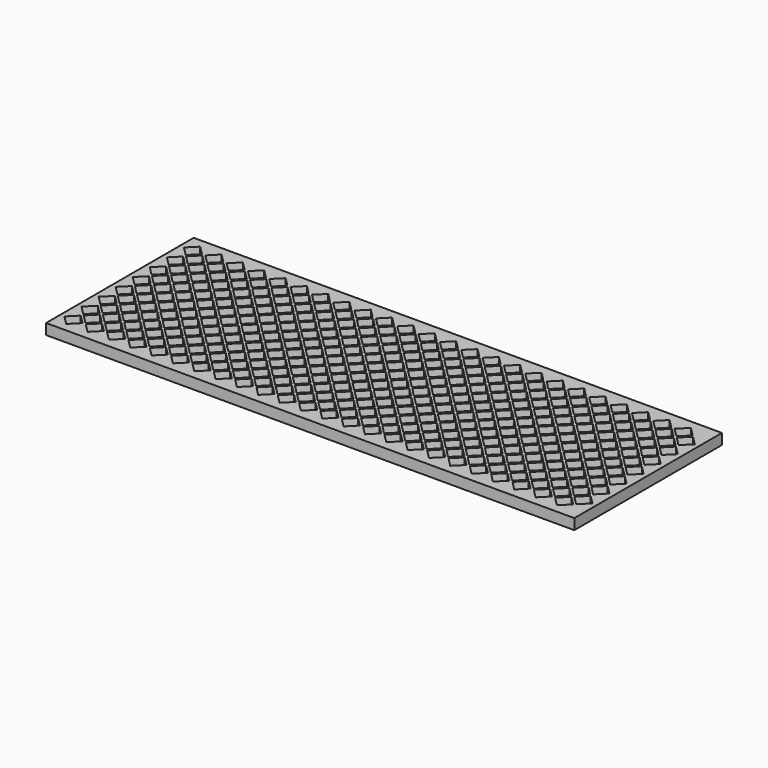
from build123d import *

# Parameters (mm, degrees)
F0_W     = 123.792
F0_H     = 43.243
F1_DEPTH = 2.5


with BuildPart() as f1:
    # F0 (on Top) → F1 (new body)
    with BuildSketch(Plane.XY):
        Rectangle(F0_W, F0_H)
        Polygon((-58.7746796564, -19.6215), (-60.896, -17.5001796564), (-58.7746796564, -15.3788593129), (-56.6533593129, -17.5001796564), align=None, mode=Mode.SUBTRACT)
        Polygon((-53.7746796564, -19.6215), (-55.896, -17.5001796564), (-53.7746796564, -15.3788593129), (-51.6533593129, -17.5001796564), align=None, mode=Mode.SUBTRACT)
        Polygon((-48.7746796564, -19.6215), (-50.896, -17.5001796564), (-48.7746796564, -15.3788593129), (-46.6533593129, -17.5001796564), align=None, mode=Mode.SUBTRACT)
        Polygon((-43.7746796564, -19.6215), (-45.896, -17.5001796564), (-43.7746796564, -15.3788593129), (-41.6533593129, -17.5001796564), align=None, mode=Mode.SUBTRACT)
        Polygon((-38.7746796564, -19.6215), (-40.896, -17.5001796564), (-38.7746796564, -15.3788593129), (-36.6533593129, -17.5001796564), align=None, mode=Mode.SUBTRACT)
        Polygon((-33.7746796564, -19.6215), (-35.896, -17.5001796564), (-33.7746796564, -15.3788593129), (-31.6533593129, -17.5001796564), align=None, mode=Mode.SUBTRACT)
        Polygon((-58.396, -15.0001796564), (-56.2746796564, -12.8788593129), (-54.1533593129, -15.0001796564), (-56.2746796564, -17.1215), align=None, mode=Mode.SUBTRACT)
        Polygon((-51.2746796564, -17.1215), (-53.396, -15.0001796564), (-51.2746796564, -12.8788593129), (-49.1533593129, -15.0001796564), align=None, mode=Mode.SUBTRACT)
        Polygon((-58.7746796564, -14.6215), (-60.896, -12.5001796564), (-58.7746796564, -10.3788593129), (-56.6533593129, -12.5001796564), align=None, mode=Mode.SUBTRACT)
        Polygon((-53.7746796564, -14.6215), (-55.896, -12.5001796564), (-53.7746796564, -10.3788593129), (-51.6533593129, -12.5001796564), align=None, mode=Mode.SUBTRACT)
        Polygon((-48.7746796564, -14.6215), (-50.896, -12.5001796564), (-48.7746796564, -10.3788593129), (-46.6533593129, -12.5001796564), align=None, mode=Mode.SUBTRACT)
        Polygon((-46.2746796564, -17.1215), (-48.396, -15.0001796564), (-46.2746796564, -12.8788593129), (-44.1533593129, -15.0001796564), align=None, mode=Mode.SUBTRACT)
        Polygon((-41.2746796564, -17.1215), (-43.396, -15.0001796564), (-41.2746796564, -12.8788593129), (-39.1533593129, -15.0001796564), align=None, mode=Mode.SUBTRACT)
        Polygon((-36.2746796564, -17.1215), (-38.396, -15.0001796564), (-36.2746796564, -12.8788593129), (-34.1533593129, -15.0001796564), align=None, mode=Mode.SUBTRACT)
        Polygon((-31.2746796564, -17.1215), (-33.396, -15.0001796564), (-31.2746796564, -12.8788593129), (-29.1533593129, -15.0001796564), align=None, mode=Mode.SUBTRACT)
        Polygon((-43.7746796564, -14.6215), (-45.896, -12.5001796564), (-43.7746796564, -10.3788593129), (-41.6533593129, -12.5001796564), align=None, mode=Mode.SUBTRACT)
        Polygon((-38.7746796564, -14.6215), (-40.896, -12.5001796564), (-38.7746796564, -10.3788593129), (-36.6533593129, -12.5001796564), align=None, mode=Mode.SUBTRACT)
        Polygon((-33.7746796564, -14.6215), (-35.896, -12.5001796564), (-33.7746796564, -10.3788593129), (-31.6533593129, -12.5001796564), align=None, mode=Mode.SUBTRACT)
        Polygon((-28.7746796564, -19.6215), (-30.896, -17.5001796564), (-28.7746796564, -15.3788593129), (-26.6533593129, -17.5001796564), align=None, mode=Mode.SUBTRACT)
        Polygon((-23.7746796564, -19.6215), (-25.896, -17.5001796564), (-23.7746796564, -15.3788593129), (-21.6533593129, -17.5001796564), align=None, mode=Mode.SUBTRACT)
        Polygon((-18.7746796564, -19.6215), (-20.896, -17.5001796564), (-18.7746796564, -15.3788593129), (-16.6533593129, -17.5001796564), align=None, mode=Mode.SUBTRACT)
        Polygon((-13.7746796564, -19.6215), (-15.896, -17.5001796564), (-13.7746796564, -15.3788593129), (-11.6533593129, -17.5001796564), align=None, mode=Mode.SUBTRACT)
        Polygon((-8.7746796564, -19.6215), (-10.896, -17.5001796564), (-8.7746796564, -15.3788593129), (-6.6533593129, -17.5001796564), align=None, mode=Mode.SUBTRACT)
        Polygon((-3.7746796564, -19.6215), (-5.896, -17.5001796564), (-3.7746796564, -15.3788593129), (-1.6533593129, -17.5001796564), align=None, mode=Mode.SUBTRACT)
        Polygon((-26.2746796564, -17.1215), (-28.396, -15.0001796564), (-26.2746796564, -12.8788593129), (-24.1533593129, -15.0001796564), align=None, mode=Mode.SUBTRACT)
        Polygon((-21.2746796564, -17.1215), (-23.396, -15.0001796564), (-21.2746796564, -12.8788593129), (-19.1533593129, -15.0001796564), align=None, mode=Mode.SUBTRACT)
        Polygon((-16.2746796564, -17.1215), (-18.396, -15.0001796564), (-16.2746796564, -12.8788593129), (-14.1533593129, -15.0001796564), align=None, mode=Mode.SUBTRACT)
        Polygon((-28.7746796564, -14.6215), (-30.896, -12.5001796564), (-28.7746796564, -10.3788593129), (-26.6533593129, -12.5001796564), align=None, mode=Mode.SUBTRACT)
        Polygon((-23.7746796564, -14.6215), (-25.896, -12.5001796564), (-23.7746796564, -10.3788593129), (-21.6533593129, -12.5001796564), align=None, mode=Mode.SUBTRACT)
        Polygon((-18.7746796564, -14.6215), (-20.896, -12.5001796564), (-18.7746796564, -10.3788593129), (-16.6533593129, -12.5001796564), align=None, mode=Mode.SUBTRACT)
        Polygon((-11.2746796564, -17.1215), (-13.396, -15.0001796564), (-11.2746796564, -12.8788593129), (-9.1533593129, -15.0001796564), align=None, mode=Mode.SUBTRACT)
        Polygon((-6.2746796564, -17.1215), (-8.396, -15.0001796564), (-6.2746796564, -12.8788593129), (-4.1533593129, -15.0001796564), align=None, mode=Mode.SUBTRACT)
        Polygon((-1.2746796564, -17.1215), (-3.396, -15.0001796564), (-1.2746796564, -12.8788593129), (0.8466406871, -15.0001796564), align=None, mode=Mode.SUBTRACT)
        Polygon((-13.7746796564, -14.6215), (-15.896, -12.5001796564), (-13.7746796564, -10.3788593129), (-11.6533593129, -12.5001796564), align=None, mode=Mode.SUBTRACT)
        Polygon((-8.7746796564, -14.6215), (-10.896, -12.5001796564), (-8.7746796564, -10.3788593129), (-6.6533593129, -12.5001796564), align=None, mode=Mode.SUBTRACT)
        Polygon((-3.7746796564, -14.6215), (-5.896, -12.5001796564), (-3.7746796564, -10.3788593129), (-1.6533593129, -12.5001796564), align=None, mode=Mode.SUBTRACT)
        Polygon((-56.2746796564, -12.1215), (-58.396, -10.0001796564), (-56.2746796564, -7.8788593129), (-54.1533593129, -10.0001796564), align=None, mode=Mode.SUBTRACT)
        Polygon((-51.2746796564, -12.1215), (-53.396, -10.0001796564), (-51.2746796564, -7.8788593129), (-49.1533593129, -10.0001796564), align=None, mode=Mode.SUBTRACT)
        Polygon((-58.7746796564, -9.6215), (-60.896, -7.5001796564), (-58.7746796564, -5.3788593129), (-56.6533593129, -7.5001796564), align=None, mode=Mode.SUBTRACT)
        Polygon((-53.7746796564, -9.6215), (-55.896, -7.5001796564), (-53.7746796564, -5.3788593129), (-51.6533593129, -7.5001796564), align=None, mode=Mode.SUBTRACT)
        Polygon((-48.7746796564, -9.6215), (-50.896, -7.5001796564), (-48.7746796564, -5.3788593129), (-46.6533593129, -7.5001796564), align=None, mode=Mode.SUBTRACT)
        Polygon((-46.2746796564, -12.1215), (-48.396, -10.0001796564), (-46.2746796564, -7.8788593129), (-44.1533593129, -10.0001796564), align=None, mode=Mode.SUBTRACT)
        Polygon((-41.2746796564, -12.1215), (-43.396, -10.0001796564), (-41.2746796564, -7.8788593129), (-39.1533593129, -10.0001796564), align=None, mode=Mode.SUBTRACT)
        Polygon((-36.2746796564, -12.1215), (-38.396, -10.0001796564), (-36.2746796564, -7.8788593129), (-34.1533593129, -10.0001796564), align=None, mode=Mode.SUBTRACT)
        Polygon((-31.2746796564, -12.1215), (-33.396, -10.0001796564), (-31.2746796564, -7.8788593129), (-29.1533593129, -10.0001796564), align=None, mode=Mode.SUBTRACT)
        Polygon((-43.7746796564, -9.6215), (-45.896, -7.5001796564), (-43.7746796564, -5.3788593129), (-41.6533593129, -7.5001796564), align=None, mode=Mode.SUBTRACT)
        Polygon((-38.7746796564, -9.6215), (-40.896, -7.5001796564), (-38.7746796564, -5.3788593129), (-36.6533593129, -7.5001796564), align=None, mode=Mode.SUBTRACT)
        Polygon((-33.7746796564, -9.6215), (-35.896, -7.5001796564), (-33.7746796564, -5.3788593129), (-31.6533593129, -7.5001796564), align=None, mode=Mode.SUBTRACT)
        Polygon((-56.2746796564, -7.1215), (-58.396, -5.0001796564), (-56.2746796564, -2.8788593129), (-54.1533593129, -5.0001796564), align=None, mode=Mode.SUBTRACT)
        Polygon((-51.2746796564, -7.1215), (-53.396, -5.0001796564), (-51.2746796564, -2.8788593129), (-49.1533593129, -5.0001796564), align=None, mode=Mode.SUBTRACT)
        Polygon((-58.7746796564, -4.6215), (-60.896, -2.5001796564), (-58.7746796564, -0.3788593129), (-56.6533593129, -2.5001796564), align=None, mode=Mode.SUBTRACT)
        Polygon((-56.2746796564, -2.1215), (-58.396, -0.0001796564), (-56.2746796564, 2.1211406871), (-54.1533593129, -0.0001796564), align=None, mode=Mode.SUBTRACT)
        Polygon((-53.7746796564, -4.6215), (-55.896, -2.5001796564), (-53.7746796564, -0.3788593129), (-51.6533593129, -2.5001796564), align=None, mode=Mode.SUBTRACT)
        Polygon((-48.7746796564, -4.6215), (-50.896, -2.5001796564), (-48.7746796564, -0.3788593129), (-46.6533593129, -2.5001796564), align=None, mode=Mode.SUBTRACT)
        Polygon((-51.2746796564, -2.1215), (-53.396, -0.0001796564), (-51.2746796564, 2.1211406871), (-49.1533593129, -0.0001796564), align=None, mode=Mode.SUBTRACT)
        Polygon((-46.2746796564, -7.1215), (-48.396, -5.0001796564), (-46.2746796564, -2.8788593129), (-44.1533593129, -5.0001796564), align=None, mode=Mode.SUBTRACT)
        Polygon((-41.2746796564, -7.1215), (-43.396, -5.0001796564), (-41.2746796564, -2.8788593129), (-39.1533593129, -5.0001796564), align=None, mode=Mode.SUBTRACT)
        Polygon((-36.2746796564, -7.1215), (-38.396, -5.0001796564), (-36.2746796564, -2.8788593129), (-34.1533593129, -5.0001796564), align=None, mode=Mode.SUBTRACT)
        Polygon((-31.2746796564, -7.1215), (-33.396, -5.0001796564), (-31.2746796564, -2.8788593129), (-29.1533593129, -5.0001796564), align=None, mode=Mode.SUBTRACT)
        Polygon((-43.7746796564, -4.6215), (-45.896, -2.5001796564), (-43.7746796564, -0.3788593129), (-41.6533593129, -2.5001796564), align=None, mode=Mode.SUBTRACT)
        Polygon((-38.7746796564, -4.6215), (-40.896, -2.5001796564), (-38.7746796564, -0.3788593129), (-36.6533593129, -2.5001796564), align=None, mode=Mode.SUBTRACT)
        Polygon((-46.2746796564, -2.1215), (-48.396, -0.0001796564), (-46.2746796564, 2.1211406871), (-44.1533593129, -0.0001796564), align=None, mode=Mode.SUBTRACT)
        Polygon((-41.2746796564, -2.1215), (-43.396, -0.0001796564), (-41.2746796564, 2.1211406871), (-39.1533593129, -0.0001796564), align=None, mode=Mode.SUBTRACT)
        Polygon((-33.7746796564, -4.6215), (-35.896, -2.5001796564), (-33.7746796564, -0.3788593129), (-31.6533593129, -2.5001796564), align=None, mode=Mode.SUBTRACT)
        Polygon((-36.2746796564, -2.1215), (-38.396, -0.0001796564), (-36.2746796564, 2.1211406871), (-34.1533593129, -0.0001796564), align=None, mode=Mode.SUBTRACT)
        Polygon((-31.2746796564, -2.1215), (-33.396, -0.0001796564), (-31.2746796564, 2.1211406871), (-29.1533593129, -0.0001796564), align=None, mode=Mode.SUBTRACT)
        Polygon((-26.2746796564, -12.1215), (-28.396, -10.0001796564), (-26.2746796564, -7.8788593129), (-24.1533593129, -10.0001796564), align=None, mode=Mode.SUBTRACT)
        Polygon((-21.2746796564, -12.1215), (-23.396, -10.0001796564), (-21.2746796564, -7.8788593129), (-19.1533593129, -10.0001796564), align=None, mode=Mode.SUBTRACT)
        Polygon((-16.2746796564, -12.1215), (-18.396, -10.0001796564), (-16.2746796564, -7.8788593129), (-14.1533593129, -10.0001796564), align=None, mode=Mode.SUBTRACT)
        Polygon((-28.7746796564, -9.6215), (-30.896, -7.5001796564), (-28.7746796564, -5.3788593129), (-26.6533593129, -7.5001796564), align=None, mode=Mode.SUBTRACT)
        Polygon((-23.7746796564, -9.6215), (-25.896, -7.5001796564), (-23.7746796564, -5.3788593129), (-21.6533593129, -7.5001796564), align=None, mode=Mode.SUBTRACT)
        Polygon((-18.7746796564, -9.6215), (-20.896, -7.5001796564), (-18.7746796564, -5.3788593129), (-16.6533593129, -7.5001796564), align=None, mode=Mode.SUBTRACT)
        Polygon((-11.2746796564, -12.1215), (-13.396, -10.0001796564), (-11.2746796564, -7.8788593129), (-9.1533593129, -10.0001796564), align=None, mode=Mode.SUBTRACT)
        Polygon((-6.2746796564, -12.1215), (-8.396, -10.0001796564), (-6.2746796564, -7.8788593129), (-4.1533593129, -10.0001796564), align=None, mode=Mode.SUBTRACT)
        Polygon((-1.2746796564, -12.1215), (-3.396, -10.0001796564), (-1.2746796564, -7.8788593129), (0.8466406871, -10.0001796564), align=None, mode=Mode.SUBTRACT)
        Polygon((-13.7746796564, -9.6215), (-15.896, -7.5001796564), (-13.7746796564, -5.3788593129), (-11.6533593129, -7.5001796564), align=None, mode=Mode.SUBTRACT)
        Polygon((-8.7746796564, -9.6215), (-10.896, -7.5001796564), (-8.7746796564, -5.3788593129), (-6.6533593129, -7.5001796564), align=None, mode=Mode.SUBTRACT)
        Polygon((-3.7746796564, -9.6215), (-5.896, -7.5001796564), (-3.7746796564, -5.3788593129), (-1.6533593129, -7.5001796564), align=None, mode=Mode.SUBTRACT)
        Polygon((-26.2746796564, -7.1215), (-28.396, -5.0001796564), (-26.2746796564, -2.8788593129), (-24.1533593129, -5.0001796564), align=None, mode=Mode.SUBTRACT)
        Polygon((-21.2746796564, -7.1215), (-23.396, -5.0001796564), (-21.2746796564, -2.8788593129), (-19.1533593129, -5.0001796564), align=None, mode=Mode.SUBTRACT)
        Polygon((-16.2746796564, -7.1215), (-18.396, -5.0001796564), (-16.2746796564, -2.8788593129), (-14.1533593129, -5.0001796564), align=None, mode=Mode.SUBTRACT)
        Polygon((-28.7746796564, -4.6215), (-30.896, -2.5001796564), (-28.7746796564, -0.3788593129), (-26.6533593129, -2.5001796564), align=None, mode=Mode.SUBTRACT)
        Polygon((-23.7746796564, -4.6215), (-25.896, -2.5001796564), (-23.7746796564, -0.3788593129), (-21.6533593129, -2.5001796564), align=None, mode=Mode.SUBTRACT)
        Polygon((-26.2746796564, -2.1215), (-28.396, -0.0001796564), (-26.2746796564, 2.1211406871), (-24.1533593129, -0.0001796564), align=None, mode=Mode.SUBTRACT)
        Polygon((-18.7746796564, -4.6215), (-20.896, -2.5001796564), (-18.7746796564, -0.3788593129), (-16.6533593129, -2.5001796564), align=None, mode=Mode.SUBTRACT)
        Polygon((-21.2746796564, -2.1215), (-23.396, -0.0001796564), (-21.2746796564, 2.1211406871), (-19.1533593129, -0.0001796564), align=None, mode=Mode.SUBTRACT)
        Polygon((-16.2746796564, -2.1215), (-18.396, -0.0001796564), (-16.2746796564, 2.1211406871), (-14.1533593129, -0.0001796564), align=None, mode=Mode.SUBTRACT)
        Polygon((-11.2746796564, -7.1215), (-13.396, -5.0001796564), (-11.2746796564, -2.8788593129), (-9.1533593129, -5.0001796564), align=None, mode=Mode.SUBTRACT)
        Polygon((-6.2746796564, -7.1215), (-8.396, -5.0001796564), (-6.2746796564, -2.8788593129), (-4.1533593129, -5.0001796564), align=None, mode=Mode.SUBTRACT)
        Polygon((-1.2746796564, -7.1215), (-3.396, -5.0001796564), (-1.2746796564, -2.8788593129), (0.8466406871, -5.0001796564), align=None, mode=Mode.SUBTRACT)
        Polygon((-13.7746796564, -4.6215), (-15.896, -2.5001796564), (-13.7746796564, -0.3788593129), (-11.6533593129, -2.5001796564), align=None, mode=Mode.SUBTRACT)
        Polygon((-8.7746796564, -4.6215), (-10.896, -2.5001796564), (-8.7746796564, -0.3788593129), (-6.6533593129, -2.5001796564), align=None, mode=Mode.SUBTRACT)
        Polygon((-11.2746796564, -2.1215), (-13.396, -0.0001796564), (-11.2746796564, 2.1211406871), (-9.1533593129, -0.0001796564), align=None, mode=Mode.SUBTRACT)
        Polygon((-3.7746796564, -4.6215), (-5.896, -2.5001796564), (-3.7746796564, -0.3788593129), (-1.6533593129, -2.5001796564), align=None, mode=Mode.SUBTRACT)
        Polygon((-6.2746796564, -2.1215), (-8.396, -0.0001796564), (-6.2746796564, 2.1211406871), (-4.1533593129, -0.0001796564), align=None, mode=Mode.SUBTRACT)
        Polygon((-1.2746796564, -2.1215), (-3.396, -0.0001796564), (-1.2746796564, 2.1211406871), (0.8466406871, -0.0001796564), align=None, mode=Mode.SUBTRACT)
        Polygon((1.2253203436, -19.6215), (-0.896, -17.5001796564), (1.2253203436, -15.3788593129), (3.3466406871, -17.5001796564), align=None, mode=Mode.SUBTRACT)
        Polygon((6.2253203436, -19.6215), (4.104, -17.5001796564), (6.2253203436, -15.3788593129), (8.3466406871, -17.5001796564), align=None, mode=Mode.SUBTRACT)
        Polygon((11.2253203436, -19.6215), (9.104, -17.5001796564), (11.2253203436, -15.3788593129), (13.3466406871, -17.5001796564), align=None, mode=Mode.SUBTRACT)
        Polygon((16.2253203436, -19.6215), (14.104, -17.5001796564), (16.2253203436, -15.3788593129), (18.3466406871, -17.5001796564), align=None, mode=Mode.SUBTRACT)
        Polygon((21.2253203436, -19.6215), (19.104, -17.5001796564), (21.2253203436, -15.3788593129), (23.3466406871, -17.5001796564), align=None, mode=Mode.SUBTRACT)
        Polygon((26.2253203436, -19.6215), (24.104, -17.5001796564), (26.2253203436, -15.3788593129), (28.3466406871, -17.5001796564), align=None, mode=Mode.SUBTRACT)
        Polygon((3.7253203436, -17.1215), (1.604, -15.0001796564), (3.7253203436, -12.8788593129), (5.8466406871, -15.0001796564), align=None, mode=Mode.SUBTRACT)
        Polygon((8.7253203436, -17.1215), (6.604, -15.0001796564), (8.7253203436, -12.8788593129), (10.8466406871, -15.0001796564), align=None, mode=Mode.SUBTRACT)
        Polygon((13.7253203436, -17.1215), (11.604, -15.0001796564), (13.7253203436, -12.8788593129), (15.8466406871, -15.0001796564), align=None, mode=Mode.SUBTRACT)
        Polygon((1.2253203436, -14.6215), (-0.896, -12.5001796564), (1.2253203436, -10.3788593129), (3.3466406871, -12.5001796564), align=None, mode=Mode.SUBTRACT)
        Polygon((6.2253203436, -14.6215), (4.104, -12.5001796564), (6.2253203436, -10.3788593129), (8.3466406871, -12.5001796564), align=None, mode=Mode.SUBTRACT)
        Polygon((11.2253203436, -14.6215), (9.104, -12.5001796564), (11.2253203436, -10.3788593129), (13.3466406871, -12.5001796564), align=None, mode=Mode.SUBTRACT)
        Polygon((18.7253203436, -17.1215), (16.604, -15.0001796564), (18.7253203436, -12.8788593129), (20.8466406871, -15.0001796564), align=None, mode=Mode.SUBTRACT)
        Polygon((23.7253203436, -17.1215), (21.604, -15.0001796564), (23.7253203436, -12.8788593129), (25.8466406871, -15.0001796564), align=None, mode=Mode.SUBTRACT)
        Polygon((28.7253203436, -17.1215), (26.604, -15.0001796564), (28.7253203436, -12.8788593129), (30.8466406871, -15.0001796564), align=None, mode=Mode.SUBTRACT)
        Polygon((16.2253203436, -14.6215), (14.104, -12.5001796564), (16.2253203436, -10.3788593129), (18.3466406871, -12.5001796564), align=None, mode=Mode.SUBTRACT)
        Polygon((21.2253203436, -14.6215), (19.104, -12.5001796564), (21.2253203436, -10.3788593129), (23.3466406871, -12.5001796564), align=None, mode=Mode.SUBTRACT)
        Polygon((26.2253203436, -14.6215), (24.104, -12.5001796564), (26.2253203436, -10.3788593129), (28.3466406871, -12.5001796564), align=None, mode=Mode.SUBTRACT)
        Polygon((31.2253203436, -19.6215), (29.104, -17.5001796564), (31.2253203436, -15.3788593129), (33.3466406871, -17.5001796564), align=None, mode=Mode.SUBTRACT)
        Polygon((36.2253203436, -19.6215), (34.104, -17.5001796564), (36.2253203436, -15.3788593129), (38.3466406871, -17.5001796564), align=None, mode=Mode.SUBTRACT)
        Polygon((41.2253203436, -19.6215), (39.104, -17.5001796564), (41.2253203436, -15.3788593129), (43.3466406871, -17.5001796564), align=None, mode=Mode.SUBTRACT)
        Polygon((46.2253203436, -19.6215), (44.104, -17.5001796564), (46.2253203436, -15.3788593129), (48.3466406871, -17.5001796564), align=None, mode=Mode.SUBTRACT)
        Polygon((51.2253203436, -19.6215), (49.104, -17.5001796564), (51.2253203436, -15.3788593129), (53.3466406871, -17.5001796564), align=None, mode=Mode.SUBTRACT)
        Polygon((56.2253203436, -19.6215), (54.104, -17.5001796564), (56.2253203436, -15.3788593129), (58.3466406871, -17.5001796564), align=None, mode=Mode.SUBTRACT)
        Polygon((33.7253203436, -17.1215), (31.604, -15.0001796564), (33.7253203436, -12.8788593129), (35.8466406871, -15.0001796564), align=None, mode=Mode.SUBTRACT)
        Polygon((38.7253203436, -17.1215), (36.604, -15.0001796564), (38.7253203436, -12.8788593129), (40.8466406871, -15.0001796564), align=None, mode=Mode.SUBTRACT)
        Polygon((43.7253203436, -17.1215), (41.604, -15.0001796564), (43.7253203436, -12.8788593129), (45.8466406871, -15.0001796564), align=None, mode=Mode.SUBTRACT)
        Polygon((31.2253203436, -14.6215), (29.104, -12.5001796564), (31.2253203436, -10.3788593129), (33.3466406871, -12.5001796564), align=None, mode=Mode.SUBTRACT)
        Polygon((36.2253203436, -14.6215), (34.104, -12.5001796564), (36.2253203436, -10.3788593129), (38.3466406871, -12.5001796564), align=None, mode=Mode.SUBTRACT)
        Polygon((41.2253203436, -14.6215), (39.104, -12.5001796564), (41.2253203436, -10.3788593129), (43.3466406871, -12.5001796564), align=None, mode=Mode.SUBTRACT)
        Polygon((46.2253203436, -14.6215), (44.104, -12.5001796564), (46.2253203436, -10.3788593129), (48.3466406871, -12.5001796564), align=None, mode=Mode.SUBTRACT)
        Polygon((48.7253203436, -17.1215), (46.604, -15.0001796564), (48.7253203436, -12.8788593129), (50.8466406871, -15.0001796564), align=None, mode=Mode.SUBTRACT)
        Polygon((53.7253203436, -17.1215), (51.604, -15.0001796564), (53.7253203436, -12.8788593129), (55.8466406871, -15.0001796564), align=None, mode=Mode.SUBTRACT)
        Polygon((58.7253203436, -17.1215), (56.604, -15.0001796564), (58.7253203436, -12.8788593129), (60.8466406871, -15.0001796564), align=None, mode=Mode.SUBTRACT)
        Polygon((51.2253203436, -14.6215), (49.104, -12.5001796564), (51.2253203436, -10.3788593129), (53.3466406871, -12.5001796564), align=None, mode=Mode.SUBTRACT)
        Polygon((56.2253203436, -14.6215), (54.104, -12.5001796564), (56.2253203436, -10.3788593129), (58.3466406871, -12.5001796564), align=None, mode=Mode.SUBTRACT)
        Polygon((3.7253203436, -12.1215), (1.604, -10.0001796564), (3.7253203436, -7.8788593129), (5.8466406871, -10.0001796564), align=None, mode=Mode.SUBTRACT)
        Polygon((8.7253203436, -12.1215), (6.604, -10.0001796564), (8.7253203436, -7.8788593129), (10.8466406871, -10.0001796564), align=None, mode=Mode.SUBTRACT)
        Polygon((13.7253203436, -12.1215), (11.604, -10.0001796564), (13.7253203436, -7.8788593129), (15.8466406871, -10.0001796564), align=None, mode=Mode.SUBTRACT)
        Polygon((1.2253203436, -9.6215), (-0.896, -7.5001796564), (1.2253203436, -5.3788593129), (3.3466406871, -7.5001796564), align=None, mode=Mode.SUBTRACT)
        Polygon((6.2253203436, -9.6215), (4.104, -7.5001796564), (6.2253203436, -5.3788593129), (8.3466406871, -7.5001796564), align=None, mode=Mode.SUBTRACT)
        Polygon((11.2253203436, -9.6215), (9.104, -7.5001796564), (11.2253203436, -5.3788593129), (13.3466406871, -7.5001796564), align=None, mode=Mode.SUBTRACT)
        Polygon((18.7253203436, -12.1215), (16.604, -10.0001796564), (18.7253203436, -7.8788593129), (20.8466406871, -10.0001796564), align=None, mode=Mode.SUBTRACT)
        Polygon((23.7253203436, -12.1215), (21.604, -10.0001796564), (23.7253203436, -7.8788593129), (25.8466406871, -10.0001796564), align=None, mode=Mode.SUBTRACT)
        Polygon((28.7253203436, -12.1215), (26.604, -10.0001796564), (28.7253203436, -7.8788593129), (30.8466406871, -10.0001796564), align=None, mode=Mode.SUBTRACT)
        Polygon((16.2253203436, -9.6215), (14.104, -7.5001796564), (16.2253203436, -5.3788593129), (18.3466406871, -7.5001796564), align=None, mode=Mode.SUBTRACT)
        Polygon((21.2253203436, -9.6215), (19.104, -7.5001796564), (21.2253203436, -5.3788593129), (23.3466406871, -7.5001796564), align=None, mode=Mode.SUBTRACT)
        Polygon((26.2253203436, -9.6215), (24.104, -7.5001796564), (26.2253203436, -5.3788593129), (28.3466406871, -7.5001796564), align=None, mode=Mode.SUBTRACT)
        Polygon((3.7253203436, -7.1215), (1.604, -5.0001796564), (3.7253203436, -2.8788593129), (5.8466406871, -5.0001796564), align=None, mode=Mode.SUBTRACT)
        Polygon((8.7253203436, -7.1215), (6.604, -5.0001796564), (8.7253203436, -2.8788593129), (10.8466406871, -5.0001796564), align=None, mode=Mode.SUBTRACT)
        Polygon((13.7253203436, -7.1215), (11.604, -5.0001796564), (13.7253203436, -2.8788593129), (15.8466406871, -5.0001796564), align=None, mode=Mode.SUBTRACT)
        Polygon((1.2253203436, -4.6215), (-0.896, -2.5001796564), (1.2253203436, -0.3788593129), (3.3466406871, -2.5001796564), align=None, mode=Mode.SUBTRACT)
        Polygon((6.2253203436, -4.6215), (4.104, -2.5001796564), (6.2253203436, -0.3788593129), (8.3466406871, -2.5001796564), align=None, mode=Mode.SUBTRACT)
        Polygon((3.7253203436, -2.1215), (1.604, -0.0001796564), (3.7253203436, 2.1211406871), (5.8466406871, -0.0001796564), align=None, mode=Mode.SUBTRACT)
        Polygon((11.2253203436, -4.6215), (9.104, -2.5001796564), (11.2253203436, -0.3788593129), (13.3466406871, -2.5001796564), align=None, mode=Mode.SUBTRACT)
        Polygon((8.7253203436, -2.1215), (6.604, -0.0001796564), (8.7253203436, 2.1211406871), (10.8466406871, -0.0001796564), align=None, mode=Mode.SUBTRACT)
        Polygon((13.7253203436, -2.1215), (11.604, -0.0001796564), (13.7253203436, 2.1211406871), (15.8466406871, -0.0001796564), align=None, mode=Mode.SUBTRACT)
        Polygon((18.7253203436, -7.1215), (16.604, -5.0001796564), (18.7253203436, -2.8788593129), (20.8466406871, -5.0001796564), align=None, mode=Mode.SUBTRACT)
        Polygon((23.7253203436, -7.1215), (21.604, -5.0001796564), (23.7253203436, -2.8788593129), (25.8466406871, -5.0001796564), align=None, mode=Mode.SUBTRACT)
        Polygon((28.7253203436, -7.1215), (26.604, -5.0001796564), (28.7253203436, -2.8788593129), (30.8466406871, -5.0001796564), align=None, mode=Mode.SUBTRACT)
        Polygon((16.2253203436, -4.6215), (14.104, -2.5001796564), (16.2253203436, -0.3788593129), (18.3466406871, -2.5001796564), align=None, mode=Mode.SUBTRACT)
        Polygon((21.2253203436, -4.6215), (19.104, -2.5001796564), (21.2253203436, -0.3788593129), (23.3466406871, -2.5001796564), align=None, mode=Mode.SUBTRACT)
        Polygon((18.7253203436, -2.1215), (16.604, -0.0001796564), (18.7253203436, 2.1211406871), (20.8466406871, -0.0001796564), align=None, mode=Mode.SUBTRACT)
        Polygon((26.2253203436, -4.6215), (24.104, -2.5001796564), (26.2253203436, -0.3788593129), (28.3466406871, -2.5001796564), align=None, mode=Mode.SUBTRACT)
        Polygon((23.7253203436, -2.1215), (21.604, -0.0001796564), (23.7253203436, 2.1211406871), (25.8466406871, -0.0001796564), align=None, mode=Mode.SUBTRACT)
        Polygon((28.7253203436, -2.1215), (26.604, -0.0001796564), (28.7253203436, 2.1211406871), (30.8466406871, -0.0001796564), align=None, mode=Mode.SUBTRACT)
        Polygon((33.7253203436, -12.1215), (31.604, -10.0001796564), (33.7253203436, -7.8788593129), (35.8466406871, -10.0001796564), align=None, mode=Mode.SUBTRACT)
        Polygon((38.7253203436, -12.1215), (36.604, -10.0001796564), (38.7253203436, -7.8788593129), (40.8466406871, -10.0001796564), align=None, mode=Mode.SUBTRACT)
        Polygon((43.7253203436, -12.1215), (41.604, -10.0001796564), (43.7253203436, -7.8788593129), (45.8466406871, -10.0001796564), align=None, mode=Mode.SUBTRACT)
        Polygon((31.2253203436, -9.6215), (29.104, -7.5001796564), (31.2253203436, -5.3788593129), (33.3466406871, -7.5001796564), align=None, mode=Mode.SUBTRACT)
        Polygon((36.2253203436, -9.6215), (34.104, -7.5001796564), (36.2253203436, -5.3788593129), (38.3466406871, -7.5001796564), align=None, mode=Mode.SUBTRACT)
        Polygon((41.2253203436, -9.6215), (39.104, -7.5001796564), (41.2253203436, -5.3788593129), (43.3466406871, -7.5001796564), align=None, mode=Mode.SUBTRACT)
        Polygon((46.2253203436, -9.6215), (44.104, -7.5001796564), (46.2253203436, -5.3788593129), (48.3466406871, -7.5001796564), align=None, mode=Mode.SUBTRACT)
        Polygon((48.7253203436, -12.1215), (46.604, -10.0001796564), (48.7253203436, -7.8788593129), (50.8466406871, -10.0001796564), align=None, mode=Mode.SUBTRACT)
        Polygon((53.7253203436, -12.1215), (51.604, -10.0001796564), (53.7253203436, -7.8788593129), (55.8466406871, -10.0001796564), align=None, mode=Mode.SUBTRACT)
        Polygon((58.7253203436, -12.1215), (56.604, -10.0001796564), (58.7253203436, -7.8788593129), (60.8466406871, -10.0001796564), align=None, mode=Mode.SUBTRACT)
        Polygon((51.2253203436, -9.6215), (49.104, -7.5001796564), (51.2253203436, -5.3788593129), (53.3466406871, -7.5001796564), align=None, mode=Mode.SUBTRACT)
        Polygon((56.2253203436, -9.6215), (54.104, -7.5001796564), (56.2253203436, -5.3788593129), (58.3466406871, -7.5001796564), align=None, mode=Mode.SUBTRACT)
        Polygon((33.7253203436, -7.1215), (31.604, -5.0001796564), (33.7253203436, -2.8788593129), (35.8466406871, -5.0001796564), align=None, mode=Mode.SUBTRACT)
        Polygon((38.7253203436, -7.1215), (36.604, -5.0001796564), (38.7253203436, -2.8788593129), (40.8466406871, -5.0001796564), align=None, mode=Mode.SUBTRACT)
        Polygon((43.7253203436, -7.1215), (41.604, -5.0001796564), (43.7253203436, -2.8788593129), (45.8466406871, -5.0001796564), align=None, mode=Mode.SUBTRACT)
        Polygon((31.2253203436, -4.6215), (29.104, -2.5001796564), (31.2253203436, -0.3788593129), (33.3466406871, -2.5001796564), align=None, mode=Mode.SUBTRACT)
        Polygon((36.2253203436, -4.6215), (34.104, -2.5001796564), (36.2253203436, -0.3788593129), (38.3466406871, -2.5001796564), align=None, mode=Mode.SUBTRACT)
        Polygon((33.7253203436, -2.1215), (31.604, -0.0001796564), (33.7253203436, 2.1211406871), (35.8466406871, -0.0001796564), align=None, mode=Mode.SUBTRACT)
        Polygon((41.2253203436, -4.6215), (39.104, -2.5001796564), (41.2253203436, -0.3788593129), (43.3466406871, -2.5001796564), align=None, mode=Mode.SUBTRACT)
        Polygon((46.2253203436, -4.6215), (44.104, -2.5001796564), (46.2253203436, -0.3788593129), (48.3466406871, -2.5001796564), align=None, mode=Mode.SUBTRACT)
        Polygon((38.7253203436, -2.1215), (36.604, -0.0001796564), (38.7253203436, 2.1211406871), (40.8466406871, -0.0001796564), align=None, mode=Mode.SUBTRACT)
        Polygon((43.7253203436, -2.1215), (41.604, -0.0001796564), (43.7253203436, 2.1211406871), (45.8466406871, -0.0001796564), align=None, mode=Mode.SUBTRACT)
        Polygon((48.7253203436, -7.1215), (46.604, -5.0001796564), (48.7253203436, -2.8788593129), (50.8466406871, -5.0001796564), align=None, mode=Mode.SUBTRACT)
        Polygon((53.7253203436, -7.1215), (51.604, -5.0001796564), (53.7253203436, -2.8788593129), (55.8466406871, -5.0001796564), align=None, mode=Mode.SUBTRACT)
        Polygon((58.7253203436, -7.1215), (56.604, -5.0001796564), (58.7253203436, -2.8788593129), (60.8466406871, -5.0001796564), align=None, mode=Mode.SUBTRACT)
        Polygon((51.2253203436, -4.6215), (49.104, -2.5001796564), (51.2253203436, -0.3788593129), (53.3466406871, -2.5001796564), align=None, mode=Mode.SUBTRACT)
        Polygon((48.7253203436, -2.1215), (46.604, -0.0001796564), (48.7253203436, 2.1211406871), (50.8466406871, -0.0001796564), align=None, mode=Mode.SUBTRACT)
        Polygon((53.7253203436, -2.1215), (51.604, -0.0001796564), (53.7253203436, 2.1211406871), (55.8466406871, -0.0001796564), align=None, mode=Mode.SUBTRACT)
        Polygon((56.2253203436, -4.6215), (54.104, -2.5001796564), (56.2253203436, -0.3788593129), (58.3466406871, -2.5001796564), align=None, mode=Mode.SUBTRACT)
        Polygon((58.7253203436, -2.1215), (56.604, -0.0001796564), (58.7253203436, 2.1211406871), (60.8466406871, -0.0001796564), align=None, mode=Mode.SUBTRACT)
        Polygon((-58.7746796564, 0.3785), (-60.896, 2.4998203436), (-58.7746796564, 4.6211406871), (-56.6533593129, 2.4998203436), align=None, mode=Mode.SUBTRACT)
        Polygon((-53.7746796564, 0.3785), (-55.896, 2.4998203436), (-53.7746796564, 4.6211406871), (-51.6533593129, 2.4998203436), align=None, mode=Mode.SUBTRACT)
        Polygon((-48.7746796564, 0.3785), (-50.896, 2.4998203436), (-48.7746796564, 4.6211406871), (-46.6533593129, 2.4998203436), align=None, mode=Mode.SUBTRACT)
        Polygon((-56.2746796564, 2.8785), (-58.396, 4.9998203436), (-56.2746796564, 7.1211406871), (-54.1533593129, 4.9998203436), align=None, mode=Mode.SUBTRACT)
        Polygon((-51.2746796564, 2.8785), (-53.396, 4.9998203436), (-51.2746796564, 7.1211406871), (-49.1533593129, 4.9998203436), align=None, mode=Mode.SUBTRACT)
        Polygon((-43.7746796564, 0.3785), (-45.896, 2.4998203436), (-43.7746796564, 4.6211406871), (-41.6533593129, 2.4998203436), align=None, mode=Mode.SUBTRACT)
        Polygon((-38.7746796564, 0.3785), (-40.896, 2.4998203436), (-38.7746796564, 4.6211406871), (-36.6533593129, 2.4998203436), align=None, mode=Mode.SUBTRACT)
        Polygon((-33.7746796564, 0.3785), (-35.896, 2.4998203436), (-33.7746796564, 4.6211406871), (-31.6533593129, 2.4998203436), align=None, mode=Mode.SUBTRACT)
        Polygon((-46.2746796564, 2.8785), (-48.396, 4.9998203436), (-46.2746796564, 7.1211406871), (-44.1533593129, 4.9998203436), align=None, mode=Mode.SUBTRACT)
        Polygon((-41.2746796564, 2.8785), (-43.396, 4.9998203436), (-41.2746796564, 7.1211406871), (-39.1533593129, 4.9998203436), align=None, mode=Mode.SUBTRACT)
        Polygon((-36.2746796564, 2.8785), (-38.396, 4.9998203436), (-36.2746796564, 7.1211406871), (-34.1533593129, 4.9998203436), align=None, mode=Mode.SUBTRACT)
        Polygon((-31.2746796564, 2.8785), (-33.396, 4.9998203436), (-31.2746796564, 7.1211406871), (-29.1533593129, 4.9998203436), align=None, mode=Mode.SUBTRACT)
        Polygon((-58.7746796564, 5.3785), (-60.896, 7.4998203436), (-58.7746796564, 9.6211406871), (-56.6533593129, 7.4998203436), align=None, mode=Mode.SUBTRACT)
        Polygon((-53.7746796564, 5.3785), (-55.896, 7.4998203436), (-53.7746796564, 9.6211406871), (-51.6533593129, 7.4998203436), align=None, mode=Mode.SUBTRACT)
        Polygon((-48.7746796564, 5.3785), (-50.896, 7.4998203436), (-48.7746796564, 9.6211406871), (-46.6533593129, 7.4998203436), align=None, mode=Mode.SUBTRACT)
        Polygon((-56.2746796564, 7.8785), (-58.396, 9.9998203436), (-56.2746796564, 12.1211406871), (-54.1533593129, 9.9998203436), align=None, mode=Mode.SUBTRACT)
        Polygon((-51.2746796564, 7.8785), (-53.396, 9.9998203436), (-51.2746796564, 12.1211406871), (-49.1533593129, 9.9998203436), align=None, mode=Mode.SUBTRACT)
        Polygon((-43.7746796564, 5.3785), (-45.896, 7.4998203436), (-43.7746796564, 9.6211406871), (-41.6533593129, 7.4998203436), align=None, mode=Mode.SUBTRACT)
        Polygon((-38.7746796564, 5.3785), (-40.896, 7.4998203436), (-38.7746796564, 9.6211406871), (-36.6533593129, 7.4998203436), align=None, mode=Mode.SUBTRACT)
        Polygon((-33.7746796564, 5.3785), (-35.896, 7.4998203436), (-33.7746796564, 9.6211406871), (-31.6533593129, 7.4998203436), align=None, mode=Mode.SUBTRACT)
        Polygon((-46.2746796564, 7.8785), (-48.396, 9.9998203436), (-46.2746796564, 12.1211406871), (-44.1533593129, 9.9998203436), align=None, mode=Mode.SUBTRACT)
        Polygon((-41.2746796564, 7.8785), (-43.396, 9.9998203436), (-41.2746796564, 12.1211406871), (-39.1533593129, 9.9998203436), align=None, mode=Mode.SUBTRACT)
        Polygon((-36.2746796564, 7.8785), (-38.396, 9.9998203436), (-36.2746796564, 12.1211406871), (-34.1533593129, 9.9998203436), align=None, mode=Mode.SUBTRACT)
        Polygon((-31.2746796564, 7.8785), (-33.396, 9.9998203436), (-31.2746796564, 12.1211406871), (-29.1533593129, 9.9998203436), align=None, mode=Mode.SUBTRACT)
        Polygon((-28.7746796564, 0.3785), (-30.896, 2.4998203436), (-28.7746796564, 4.6211406871), (-26.6533593129, 2.4998203436), align=None, mode=Mode.SUBTRACT)
        Polygon((-23.7746796564, 0.3785), (-25.896, 2.4998203436), (-23.7746796564, 4.6211406871), (-21.6533593129, 2.4998203436), align=None, mode=Mode.SUBTRACT)
        Polygon((-18.7746796564, 0.3785), (-20.896, 2.4998203436), (-18.7746796564, 4.6211406871), (-16.6533593129, 2.4998203436), align=None, mode=Mode.SUBTRACT)
        Polygon((-26.2746796564, 2.8785), (-28.396, 4.9998203436), (-26.2746796564, 7.1211406871), (-24.1533593129, 4.9998203436), align=None, mode=Mode.SUBTRACT)
        Polygon((-21.2746796564, 2.8785), (-23.396, 4.9998203436), (-21.2746796564, 7.1211406871), (-19.1533593129, 4.9998203436), align=None, mode=Mode.SUBTRACT)
        Polygon((-16.2746796564, 2.8785), (-18.396, 4.9998203436), (-16.2746796564, 7.1211406871), (-14.1533593129, 4.9998203436), align=None, mode=Mode.SUBTRACT)
        Polygon((-13.7746796564, 0.3785), (-15.896, 2.4998203436), (-13.7746796564, 4.6211406871), (-11.6533593129, 2.4998203436), align=None, mode=Mode.SUBTRACT)
        Polygon((-8.7746796564, 0.3785), (-10.896, 2.4998203436), (-8.7746796564, 4.6211406871), (-6.6533593129, 2.4998203436), align=None, mode=Mode.SUBTRACT)
        Polygon((-3.7746796564, 0.3785), (-5.896, 2.4998203436), (-3.7746796564, 4.6211406871), (-1.6533593129, 2.4998203436), align=None, mode=Mode.SUBTRACT)
        Polygon((-11.2746796564, 2.8785), (-13.396, 4.9998203436), (-11.2746796564, 7.1211406871), (-9.1533593129, 4.9998203436), align=None, mode=Mode.SUBTRACT)
        Polygon((-6.2746796564, 2.8785), (-8.396, 4.9998203436), (-6.2746796564, 7.1211406871), (-4.1533593129, 4.9998203436), align=None, mode=Mode.SUBTRACT)
        Polygon((-1.2746796564, 2.8785), (-3.396, 4.9998203436), (-1.2746796564, 7.1211406871), (0.8466406871, 4.9998203436), align=None, mode=Mode.SUBTRACT)
        Polygon((-28.7746796564, 5.3785), (-30.896, 7.4998203436), (-28.7746796564, 9.6211406871), (-26.6533593129, 7.4998203436), align=None, mode=Mode.SUBTRACT)
        Polygon((-23.7746796564, 5.3785), (-25.896, 7.4998203436), (-23.7746796564, 9.6211406871), (-21.6533593129, 7.4998203436), align=None, mode=Mode.SUBTRACT)
        Polygon((-18.7746796564, 5.3785), (-20.896, 7.4998203436), (-18.7746796564, 9.6211406871), (-16.6533593129, 7.4998203436), align=None, mode=Mode.SUBTRACT)
        Polygon((-26.2746796564, 7.8785), (-28.396, 9.9998203436), (-26.2746796564, 12.1211406871), (-24.1533593129, 9.9998203436), align=None, mode=Mode.SUBTRACT)
        Polygon((-21.2746796564, 7.8785), (-23.396, 9.9998203436), (-21.2746796564, 12.1211406871), (-19.1533593129, 9.9998203436), align=None, mode=Mode.SUBTRACT)
        Polygon((-16.2746796564, 7.8785), (-18.396, 9.9998203436), (-16.2746796564, 12.1211406871), (-14.1533593129, 9.9998203436), align=None, mode=Mode.SUBTRACT)
        Polygon((-13.7746796564, 5.3785), (-15.896, 7.4998203436), (-13.7746796564, 9.6211406871), (-11.6533593129, 7.4998203436), align=None, mode=Mode.SUBTRACT)
        Polygon((-8.7746796564, 5.3785), (-10.896, 7.4998203436), (-8.7746796564, 9.6211406871), (-6.6533593129, 7.4998203436), align=None, mode=Mode.SUBTRACT)
        Polygon((-3.7746796564, 5.3785), (-5.896, 7.4998203436), (-3.7746796564, 9.6211406871), (-1.6533593129, 7.4998203436), align=None, mode=Mode.SUBTRACT)
        Polygon((-11.2746796564, 7.8785), (-13.396, 9.9998203436), (-11.2746796564, 12.1211406871), (-9.1533593129, 9.9998203436), align=None, mode=Mode.SUBTRACT)
        Polygon((-6.2746796564, 7.8785), (-8.396, 9.9998203436), (-6.2746796564, 12.1211406871), (-4.1533593129, 9.9998203436), align=None, mode=Mode.SUBTRACT)
        Polygon((-1.2746796564, 7.8785), (-3.396, 9.9998203436), (-1.2746796564, 12.1211406871), (0.8466406871, 9.9998203436), align=None, mode=Mode.SUBTRACT)
        Polygon((-58.7746796564, 10.3785), (-60.896, 12.4998203436), (-58.7746796564, 14.6211406871), (-56.6533593129, 12.4998203436), align=None, mode=Mode.SUBTRACT)
        Polygon((-53.7746796564, 10.3785), (-55.896, 12.4998203436), (-53.7746796564, 14.6211406871), (-51.6533593129, 12.4998203436), align=None, mode=Mode.SUBTRACT)
        Polygon((-48.7746796564, 10.3785), (-50.896, 12.4998203436), (-48.7746796564, 14.6211406871), (-46.6533593129, 12.4998203436), align=None, mode=Mode.SUBTRACT)
        Polygon((-56.2746796564, 12.8785), (-58.396, 14.9998203436), (-56.2746796564, 17.1211406871), (-54.1533593129, 14.9998203436), align=None, mode=Mode.SUBTRACT)
        Polygon((-51.2746796564, 12.8785), (-53.396, 14.9998203436), (-51.2746796564, 17.1211406871), (-49.1533593129, 14.9998203436), align=None, mode=Mode.SUBTRACT)
        Polygon((-43.7746796564, 10.3785), (-45.896, 12.4998203436), (-43.7746796564, 14.6211406871), (-41.6533593129, 12.4998203436), align=None, mode=Mode.SUBTRACT)
        Polygon((-38.7746796564, 10.3785), (-40.896, 12.4998203436), (-38.7746796564, 14.6211406871), (-36.6533593129, 12.4998203436), align=None, mode=Mode.SUBTRACT)
        Polygon((-33.7746796564, 10.3785), (-35.896, 12.4998203436), (-33.7746796564, 14.6211406871), (-31.6533593129, 12.4998203436), align=None, mode=Mode.SUBTRACT)
        Polygon((-46.2746796564, 12.8785), (-48.396, 14.9998203436), (-46.2746796564, 17.1211406871), (-44.1533593129, 14.9998203436), align=None, mode=Mode.SUBTRACT)
        Polygon((-41.2746796564, 12.8785), (-43.396, 14.9998203436), (-41.2746796564, 17.1211406871), (-39.1533593129, 14.9998203436), align=None, mode=Mode.SUBTRACT)
        Polygon((-36.2746796564, 12.8785), (-38.396, 14.9998203436), (-36.2746796564, 17.1211406871), (-34.1533593129, 14.9998203436), align=None, mode=Mode.SUBTRACT)
        Polygon((-31.2746796564, 12.8785), (-33.396, 14.9998203436), (-31.2746796564, 17.1211406871), (-29.1533593129, 14.9998203436), align=None, mode=Mode.SUBTRACT)
        Polygon((-58.7746796564, 15.3785), (-60.896, 17.4998203436), (-58.7746796564, 19.6211406871), (-56.6533593129, 17.4998203436), align=None, mode=Mode.SUBTRACT)
        Polygon((-53.7746796564, 15.3785), (-55.896, 17.4998203436), (-53.7746796564, 19.6211406871), (-51.6533593129, 17.4998203436), align=None, mode=Mode.SUBTRACT)
        Polygon((-48.7746796564, 15.3785), (-50.896, 17.4998203436), (-48.7746796564, 19.6211406871), (-46.6533593129, 17.4998203436), align=None, mode=Mode.SUBTRACT)
        Polygon((-43.7746796564, 15.3785), (-45.896, 17.4998203436), (-43.7746796564, 19.6211406871), (-41.6533593129, 17.4998203436), align=None, mode=Mode.SUBTRACT)
        Polygon((-38.7746796564, 15.3785), (-40.896, 17.4998203436), (-38.7746796564, 19.6211406871), (-36.6533593129, 17.4998203436), align=None, mode=Mode.SUBTRACT)
        Polygon((-33.7746796564, 15.3785), (-35.896, 17.4998203436), (-33.7746796564, 19.6211406871), (-31.6533593129, 17.4998203436), align=None, mode=Mode.SUBTRACT)
        Polygon((-28.7746796564, 10.3785), (-30.896, 12.4998203436), (-28.7746796564, 14.6211406871), (-26.6533593129, 12.4998203436), align=None, mode=Mode.SUBTRACT)
        Polygon((-23.7746796564, 10.3785), (-25.896, 12.4998203436), (-23.7746796564, 14.6211406871), (-21.6533593129, 12.4998203436), align=None, mode=Mode.SUBTRACT)
        Polygon((-18.7746796564, 10.3785), (-20.896, 12.4998203436), (-18.7746796564, 14.6211406871), (-16.6533593129, 12.4998203436), align=None, mode=Mode.SUBTRACT)
        Polygon((-26.2746796564, 12.8785), (-28.396, 14.9998203436), (-26.2746796564, 17.1211406871), (-24.1533593129, 14.9998203436), align=None, mode=Mode.SUBTRACT)
        Polygon((-21.2746796564, 12.8785), (-23.396, 14.9998203436), (-21.2746796564, 17.1211406871), (-19.1533593129, 14.9998203436), align=None, mode=Mode.SUBTRACT)
        Polygon((-16.2746796564, 12.8785), (-18.396, 14.9998203436), (-16.2746796564, 17.1211406871), (-14.1533593129, 14.9998203436), align=None, mode=Mode.SUBTRACT)
        Polygon((-13.7746796564, 10.3785), (-15.896, 12.4998203436), (-13.7746796564, 14.6211406871), (-11.6533593129, 12.4998203436), align=None, mode=Mode.SUBTRACT)
        Polygon((-8.7746796564, 10.3785), (-10.896, 12.4998203436), (-8.7746796564, 14.6211406871), (-6.6533593129, 12.4998203436), align=None, mode=Mode.SUBTRACT)
        Polygon((-3.7746796564, 10.3785), (-5.896, 12.4998203436), (-3.7746796564, 14.6211406871), (-1.6533593129, 12.4998203436), align=None, mode=Mode.SUBTRACT)
        Polygon((-11.2746796564, 12.8785), (-13.396, 14.9998203436), (-11.2746796564, 17.1211406871), (-9.1533593129, 14.9998203436), align=None, mode=Mode.SUBTRACT)
        Polygon((-6.2746796564, 12.8785), (-8.396, 14.9998203436), (-6.2746796564, 17.1211406871), (-4.1533593129, 14.9998203436), align=None, mode=Mode.SUBTRACT)
        Polygon((-1.2746796564, 12.8785), (-3.396, 14.9998203436), (-1.2746796564, 17.1211406871), (0.8466406871, 14.9998203436), align=None, mode=Mode.SUBTRACT)
        Polygon((-28.7746796564, 15.3785), (-30.896, 17.4998203436), (-28.7746796564, 19.6211406871), (-26.6533593129, 17.4998203436), align=None, mode=Mode.SUBTRACT)
        Polygon((-23.7746796564, 15.3785), (-25.896, 17.4998203436), (-23.7746796564, 19.6211406871), (-21.6533593129, 17.4998203436), align=None, mode=Mode.SUBTRACT)
        Polygon((-18.7746796564, 15.3785), (-20.896, 17.4998203436), (-18.7746796564, 19.6211406871), (-16.6533593129, 17.4998203436), align=None, mode=Mode.SUBTRACT)
        Polygon((-13.7746796564, 15.3785), (-15.896, 17.4998203436), (-13.7746796564, 19.6211406871), (-11.6533593129, 17.4998203436), align=None, mode=Mode.SUBTRACT)
        Polygon((-8.7746796564, 15.3785), (-10.896, 17.4998203436), (-8.7746796564, 19.6211406871), (-6.6533593129, 17.4998203436), align=None, mode=Mode.SUBTRACT)
        Polygon((-3.7746796564, 15.3785), (-5.896, 17.4998203436), (-3.7746796564, 19.6211406871), (-1.6533593129, 17.4998203436), align=None, mode=Mode.SUBTRACT)
        Polygon((1.2253203436, 0.3785), (-0.896, 2.4998203436), (1.2253203436, 4.6211406871), (3.3466406871, 2.4998203436), align=None, mode=Mode.SUBTRACT)
        Polygon((6.2253203436, 0.3785), (4.104, 2.4998203436), (6.2253203436, 4.6211406871), (8.3466406871, 2.4998203436), align=None, mode=Mode.SUBTRACT)
        Polygon((11.2253203436, 0.3785), (9.104, 2.4998203436), (11.2253203436, 4.6211406871), (13.3466406871, 2.4998203436), align=None, mode=Mode.SUBTRACT)
        Polygon((3.7253203436, 2.8785), (1.604, 4.9998203436), (3.7253203436, 7.1211406871), (5.8466406871, 4.9998203436), align=None, mode=Mode.SUBTRACT)
        Polygon((8.7253203436, 2.8785), (6.604, 4.9998203436), (8.7253203436, 7.1211406871), (10.8466406871, 4.9998203436), align=None, mode=Mode.SUBTRACT)
        Polygon((13.7253203436, 2.8785), (11.604, 4.9998203436), (13.7253203436, 7.1211406871), (15.8466406871, 4.9998203436), align=None, mode=Mode.SUBTRACT)
        Polygon((16.2253203436, 0.3785), (14.104, 2.4998203436), (16.2253203436, 4.6211406871), (18.3466406871, 2.4998203436), align=None, mode=Mode.SUBTRACT)
        Polygon((21.2253203436, 0.3785), (19.104, 2.4998203436), (21.2253203436, 4.6211406871), (23.3466406871, 2.4998203436), align=None, mode=Mode.SUBTRACT)
        Polygon((26.2253203436, 0.3785), (24.104, 2.4998203436), (26.2253203436, 4.6211406871), (28.3466406871, 2.4998203436), align=None, mode=Mode.SUBTRACT)
        Polygon((18.7253203436, 2.8785), (16.604, 4.9998203436), (18.7253203436, 7.1211406871), (20.8466406871, 4.9998203436), align=None, mode=Mode.SUBTRACT)
        Polygon((23.7253203436, 2.8785), (21.604, 4.9998203436), (23.7253203436, 7.1211406871), (25.8466406871, 4.9998203436), align=None, mode=Mode.SUBTRACT)
        Polygon((28.7253203436, 2.8785), (26.604, 4.9998203436), (28.7253203436, 7.1211406871), (30.8466406871, 4.9998203436), align=None, mode=Mode.SUBTRACT)
        Polygon((1.2253203436, 5.3785), (-0.896, 7.4998203436), (1.2253203436, 9.6211406871), (3.3466406871, 7.4998203436), align=None, mode=Mode.SUBTRACT)
        Polygon((6.2253203436, 5.3785), (4.104, 7.4998203436), (6.2253203436, 9.6211406871), (8.3466406871, 7.4998203436), align=None, mode=Mode.SUBTRACT)
        Polygon((11.2253203436, 5.3785), (9.104, 7.4998203436), (11.2253203436, 9.6211406871), (13.3466406871, 7.4998203436), align=None, mode=Mode.SUBTRACT)
        Polygon((3.7253203436, 7.8785), (1.604, 9.9998203436), (3.7253203436, 12.1211406871), (5.8466406871, 9.9998203436), align=None, mode=Mode.SUBTRACT)
        Polygon((8.7253203436, 7.8785), (6.604, 9.9998203436), (8.7253203436, 12.1211406871), (10.8466406871, 9.9998203436), align=None, mode=Mode.SUBTRACT)
        Polygon((13.7253203436, 7.8785), (11.604, 9.9998203436), (13.7253203436, 12.1211406871), (15.8466406871, 9.9998203436), align=None, mode=Mode.SUBTRACT)
        Polygon((16.2253203436, 5.3785), (14.104, 7.4998203436), (16.2253203436, 9.6211406871), (18.3466406871, 7.4998203436), align=None, mode=Mode.SUBTRACT)
        Polygon((21.2253203436, 5.3785), (19.104, 7.4998203436), (21.2253203436, 9.6211406871), (23.3466406871, 7.4998203436), align=None, mode=Mode.SUBTRACT)
        Polygon((26.2253203436, 5.3785), (24.104, 7.4998203436), (26.2253203436, 9.6211406871), (28.3466406871, 7.4998203436), align=None, mode=Mode.SUBTRACT)
        Polygon((18.7253203436, 7.8785), (16.604, 9.9998203436), (18.7253203436, 12.1211406871), (20.8466406871, 9.9998203436), align=None, mode=Mode.SUBTRACT)
        Polygon((23.7253203436, 7.8785), (21.604, 9.9998203436), (23.7253203436, 12.1211406871), (25.8466406871, 9.9998203436), align=None, mode=Mode.SUBTRACT)
        Polygon((28.7253203436, 7.8785), (26.604, 9.9998203436), (28.7253203436, 12.1211406871), (30.8466406871, 9.9998203436), align=None, mode=Mode.SUBTRACT)
        Polygon((31.2253203436, 0.3785), (29.104, 2.4998203436), (31.2253203436, 4.6211406871), (33.3466406871, 2.4998203436), align=None, mode=Mode.SUBTRACT)
        Polygon((36.2253203436, 0.3785), (34.104, 2.4998203436), (36.2253203436, 4.6211406871), (38.3466406871, 2.4998203436), align=None, mode=Mode.SUBTRACT)
        Polygon((41.2253203436, 0.3785), (39.104, 2.4998203436), (41.2253203436, 4.6211406871), (43.3466406871, 2.4998203436), align=None, mode=Mode.SUBTRACT)
        Polygon((46.2253203436, 0.3785), (44.104, 2.4998203436), (46.2253203436, 4.6211406871), (48.3466406871, 2.4998203436), align=None, mode=Mode.SUBTRACT)
        Polygon((33.7253203436, 2.8785), (31.604, 4.9998203436), (33.7253203436, 7.1211406871), (35.8466406871, 4.9998203436), align=None, mode=Mode.SUBTRACT)
        Polygon((38.7253203436, 2.8785), (36.604, 4.9998203436), (38.7253203436, 7.1211406871), (40.8466406871, 4.9998203436), align=None, mode=Mode.SUBTRACT)
        Polygon((43.7253203436, 2.8785), (41.604, 4.9998203436), (43.7253203436, 7.1211406871), (45.8466406871, 4.9998203436), align=None, mode=Mode.SUBTRACT)
        Polygon((51.2253203436, 0.3785), (49.104, 2.4998203436), (51.2253203436, 4.6211406871), (53.3466406871, 2.4998203436), align=None, mode=Mode.SUBTRACT)
        Polygon((56.2253203436, 0.3785), (54.104, 2.4998203436), (56.2253203436, 4.6211406871), (58.3466406871, 2.4998203436), align=None, mode=Mode.SUBTRACT)
        Polygon((48.7253203436, 2.8785), (46.604, 4.9998203436), (48.7253203436, 7.1211406871), (50.8466406871, 4.9998203436), align=None, mode=Mode.SUBTRACT)
        Polygon((53.7253203436, 2.8785), (51.604, 4.9998203436), (53.7253203436, 7.1211406871), (55.8466406871, 4.9998203436), align=None, mode=Mode.SUBTRACT)
        Polygon((58.7253203436, 2.8785), (56.604, 4.9998203436), (58.7253203436, 7.1211406871), (60.8466406871, 4.9998203436), align=None, mode=Mode.SUBTRACT)
        Polygon((31.2253203436, 5.3785), (29.104, 7.4998203436), (31.2253203436, 9.6211406871), (33.3466406871, 7.4998203436), align=None, mode=Mode.SUBTRACT)
        Polygon((36.2253203436, 5.3785), (34.104, 7.4998203436), (36.2253203436, 9.6211406871), (38.3466406871, 7.4998203436), align=None, mode=Mode.SUBTRACT)
        Polygon((41.2253203436, 5.3785), (39.104, 7.4998203436), (41.2253203436, 9.6211406871), (43.3466406871, 7.4998203436), align=None, mode=Mode.SUBTRACT)
        Polygon((46.2253203436, 5.3785), (44.104, 7.4998203436), (46.2253203436, 9.6211406871), (48.3466406871, 7.4998203436), align=None, mode=Mode.SUBTRACT)
        Polygon((33.7253203436, 7.8785), (31.604, 9.9998203436), (33.7253203436, 12.1211406871), (35.8466406871, 9.9998203436), align=None, mode=Mode.SUBTRACT)
        Polygon((38.7253203436, 7.8785), (36.604, 9.9998203436), (38.7253203436, 12.1211406871), (40.8466406871, 9.9998203436), align=None, mode=Mode.SUBTRACT)
        Polygon((43.7253203436, 7.8785), (41.604, 9.9998203436), (43.7253203436, 12.1211406871), (45.8466406871, 9.9998203436), align=None, mode=Mode.SUBTRACT)
        Polygon((51.2253203436, 5.3785), (49.104, 7.4998203436), (51.2253203436, 9.6211406871), (53.3466406871, 7.4998203436), align=None, mode=Mode.SUBTRACT)
        Polygon((56.2253203436, 5.3785), (54.104, 7.4998203436), (56.2253203436, 9.6211406871), (58.3466406871, 7.4998203436), align=None, mode=Mode.SUBTRACT)
        Polygon((48.7253203436, 7.8785), (46.604, 9.9998203436), (48.7253203436, 12.1211406871), (50.8466406871, 9.9998203436), align=None, mode=Mode.SUBTRACT)
        Polygon((53.7253203436, 7.8785), (51.604, 9.9998203436), (53.7253203436, 12.1211406871), (55.8466406871, 9.9998203436), align=None, mode=Mode.SUBTRACT)
        Polygon((58.7253203436, 7.8785), (56.604, 9.9998203436), (58.7253203436, 12.1211406871), (60.8466406871, 9.9998203436), align=None, mode=Mode.SUBTRACT)
        Polygon((1.2253203436, 10.3785), (-0.896, 12.4998203436), (1.2253203436, 14.6211406871), (3.3466406871, 12.4998203436), align=None, mode=Mode.SUBTRACT)
        Polygon((6.2253203436, 10.3785), (4.104, 12.4998203436), (6.2253203436, 14.6211406871), (8.3466406871, 12.4998203436), align=None, mode=Mode.SUBTRACT)
        Polygon((11.2253203436, 10.3785), (9.104, 12.4998203436), (11.2253203436, 14.6211406871), (13.3466406871, 12.4998203436), align=None, mode=Mode.SUBTRACT)
        Polygon((3.7253203436, 12.8785), (1.604, 14.9998203436), (3.7253203436, 17.1211406871), (5.8466406871, 14.9998203436), align=None, mode=Mode.SUBTRACT)
        Polygon((8.7253203436, 12.8785), (6.604, 14.9998203436), (8.7253203436, 17.1211406871), (10.8466406871, 14.9998203436), align=None, mode=Mode.SUBTRACT)
        Polygon((13.7253203436, 12.8785), (11.604, 14.9998203436), (13.7253203436, 17.1211406871), (15.8466406871, 14.9998203436), align=None, mode=Mode.SUBTRACT)
        Polygon((16.2253203436, 10.3785), (14.104, 12.4998203436), (16.2253203436, 14.6211406871), (18.3466406871, 12.4998203436), align=None, mode=Mode.SUBTRACT)
        Polygon((21.2253203436, 10.3785), (19.104, 12.4998203436), (21.2253203436, 14.6211406871), (23.3466406871, 12.4998203436), align=None, mode=Mode.SUBTRACT)
        Polygon((26.2253203436, 10.3785), (24.104, 12.4998203436), (26.2253203436, 14.6211406871), (28.3466406871, 12.4998203436), align=None, mode=Mode.SUBTRACT)
        Polygon((18.7253203436, 12.8785), (16.604, 14.9998203436), (18.7253203436, 17.1211406871), (20.8466406871, 14.9998203436), align=None, mode=Mode.SUBTRACT)
        Polygon((23.7253203436, 12.8785), (21.604, 14.9998203436), (23.7253203436, 17.1211406871), (25.8466406871, 14.9998203436), align=None, mode=Mode.SUBTRACT)
        Polygon((28.7253203436, 12.8785), (26.604, 14.9998203436), (28.7253203436, 17.1211406871), (30.8466406871, 14.9998203436), align=None, mode=Mode.SUBTRACT)
        Polygon((1.2253203436, 15.3785), (-0.896, 17.4998203436), (1.2253203436, 19.6211406871), (3.3466406871, 17.4998203436), align=None, mode=Mode.SUBTRACT)
        Polygon((6.2253203436, 15.3785), (4.104, 17.4998203436), (6.2253203436, 19.6211406871), (8.3466406871, 17.4998203436), align=None, mode=Mode.SUBTRACT)
        Polygon((11.2253203436, 15.3785), (9.104, 17.4998203436), (11.2253203436, 19.6211406871), (13.3466406871, 17.4998203436), align=None, mode=Mode.SUBTRACT)
        Polygon((16.2253203436, 15.3785), (14.104, 17.4998203436), (16.2253203436, 19.6211406871), (18.3466406871, 17.4998203436), align=None, mode=Mode.SUBTRACT)
        Polygon((21.2253203436, 15.3785), (19.104, 17.4998203436), (21.2253203436, 19.6211406871), (23.3466406871, 17.4998203436), align=None, mode=Mode.SUBTRACT)
        Polygon((26.2253203436, 15.3785), (24.104, 17.4998203436), (26.2253203436, 19.6211406871), (28.3466406871, 17.4998203436), align=None, mode=Mode.SUBTRACT)
        Polygon((31.2253203436, 10.3785), (29.104, 12.4998203436), (31.2253203436, 14.6211406871), (33.3466406871, 12.4998203436), align=None, mode=Mode.SUBTRACT)
        Polygon((36.2253203436, 10.3785), (34.104, 12.4998203436), (36.2253203436, 14.6211406871), (38.3466406871, 12.4998203436), align=None, mode=Mode.SUBTRACT)
        Polygon((41.2253203436, 10.3785), (39.104, 12.4998203436), (41.2253203436, 14.6211406871), (43.3466406871, 12.4998203436), align=None, mode=Mode.SUBTRACT)
        Polygon((46.2253203436, 10.3785), (44.104, 12.4998203436), (46.2253203436, 14.6211406871), (48.3466406871, 12.4998203436), align=None, mode=Mode.SUBTRACT)
        Polygon((33.7253203436, 12.8785), (31.604, 14.9998203436), (33.7253203436, 17.1211406871), (35.8466406871, 14.9998203436), align=None, mode=Mode.SUBTRACT)
        Polygon((38.7253203436, 12.8785), (36.604, 14.9998203436), (38.7253203436, 17.1211406871), (40.8466406871, 14.9998203436), align=None, mode=Mode.SUBTRACT)
        Polygon((43.7253203436, 12.8785), (41.604, 14.9998203436), (43.7253203436, 17.1211406871), (45.8466406871, 14.9998203436), align=None, mode=Mode.SUBTRACT)
        Polygon((51.2253203436, 10.3785), (49.104, 12.4998203436), (51.2253203436, 14.6211406871), (53.3466406871, 12.4998203436), align=None, mode=Mode.SUBTRACT)
        Polygon((56.2253203436, 10.3785), (54.104, 12.4998203436), (56.2253203436, 14.6211406871), (58.3466406871, 12.4998203436), align=None, mode=Mode.SUBTRACT)
        Polygon((48.7253203436, 12.8785), (46.604, 14.9998203436), (48.7253203436, 17.1211406871), (50.8466406871, 14.9998203436), align=None, mode=Mode.SUBTRACT)
        Polygon((53.7253203436, 12.8785), (51.604, 14.9998203436), (53.7253203436, 17.1211406871), (55.8466406871, 14.9998203436), align=None, mode=Mode.SUBTRACT)
        Polygon((58.7253203436, 12.8785), (56.604, 14.9998203436), (58.7253203436, 17.1211406871), (60.8466406871, 14.9998203436), align=None, mode=Mode.SUBTRACT)
        Polygon((31.2253203436, 15.3785), (29.104, 17.4998203436), (31.2253203436, 19.6211406871), (33.3466406871, 17.4998203436), align=None, mode=Mode.SUBTRACT)
        Polygon((36.2253203436, 15.3785), (34.104, 17.4998203436), (36.2253203436, 19.6211406871), (38.3466406871, 17.4998203436), align=None, mode=Mode.SUBTRACT)
        Polygon((41.2253203436, 15.3785), (39.104, 17.4998203436), (41.2253203436, 19.6211406871), (43.3466406871, 17.4998203436), align=None, mode=Mode.SUBTRACT)
        Polygon((46.2253203436, 15.3785), (44.104, 17.4998203436), (46.2253203436, 19.6211406871), (48.3466406871, 17.4998203436), align=None, mode=Mode.SUBTRACT)
        Polygon((51.2253203436, 15.3785), (49.104, 17.4998203436), (51.2253203436, 19.6211406871), (53.3466406871, 17.4998203436), align=None, mode=Mode.SUBTRACT)
        Polygon((56.2253203436, 15.3785), (54.104, 17.4998203436), (56.2253203436, 19.6211406871), (58.3466406871, 17.4998203436), align=None, mode=Mode.SUBTRACT)
    extrude(amount=F1_DEPTH)


solid = f1.part
